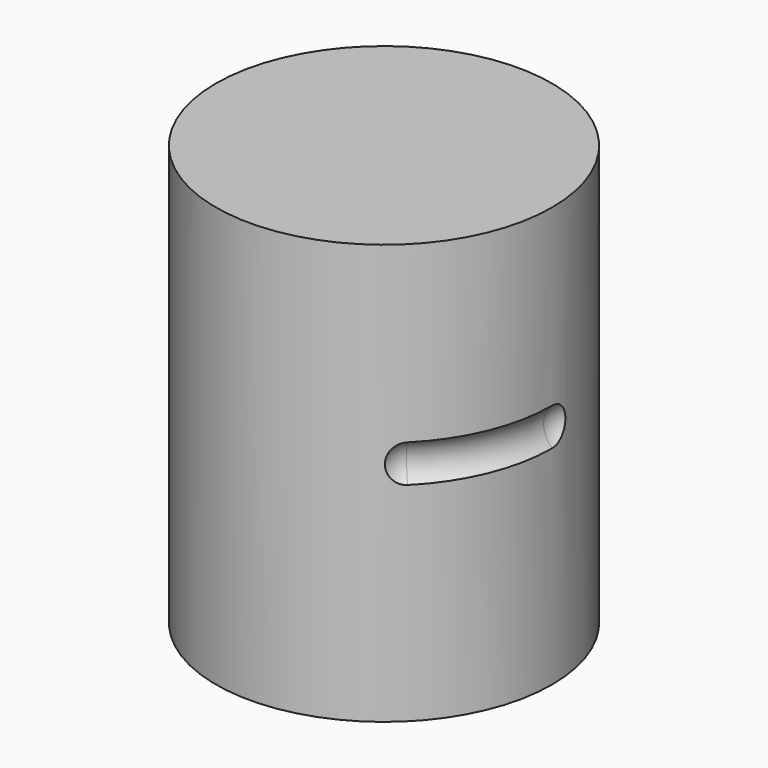
from build123d import *

# Parameters (mm, degrees)
F0_R     = 10
F1_DEPTH = 25
F3_ANGLE = -45
F5_ANGLE = -45


with BuildPart() as f1:
    # F0 (on Top) → F1 (new body)
    with BuildSketch(Plane.XY):
        Circle(F0_R)
    extrude(amount=F1_DEPTH)

    # F2 (on Front) → F3 (revolve, cut)
    with BuildSketch(Plane.XZ):
        with BuildLine():
            Line((11, 12), (11, 15))
            ThreePointArc((11, 15), (9.5, 13.5), (11, 12))
        make_face()
    revolve(axis=Axis((0, 0, 25), (0, 0, 1)), revolution_arc=F3_ANGLE, mode=Mode.SUBTRACT)


with BuildPart() as f4:
    # F2 (on Front) → F4 (revolve)
    with BuildSketch(Plane.XZ):
        with BuildLine():
            Line((11, 12), (11, 15))
            ThreePointArc((11, 15), (9.5, 13.5), (11, 12))
        make_face()
    revolve(axis=Axis((11, 0, 13.5), (0, 0, -1)))


with BuildPart() as f5_1:
    # F5: copy of F4
    add(f4.part.rotate(Axis((0, 0, 25), (0, 0, 1)), F5_ANGLE))


with BuildPart() as f1_1:
    add(f1.part)

    # F6: cut F5_1, F4
    add(f5_1.part, mode=Mode.SUBTRACT)
    add(f4.part, mode=Mode.SUBTRACT)


solid = f1_1.part
